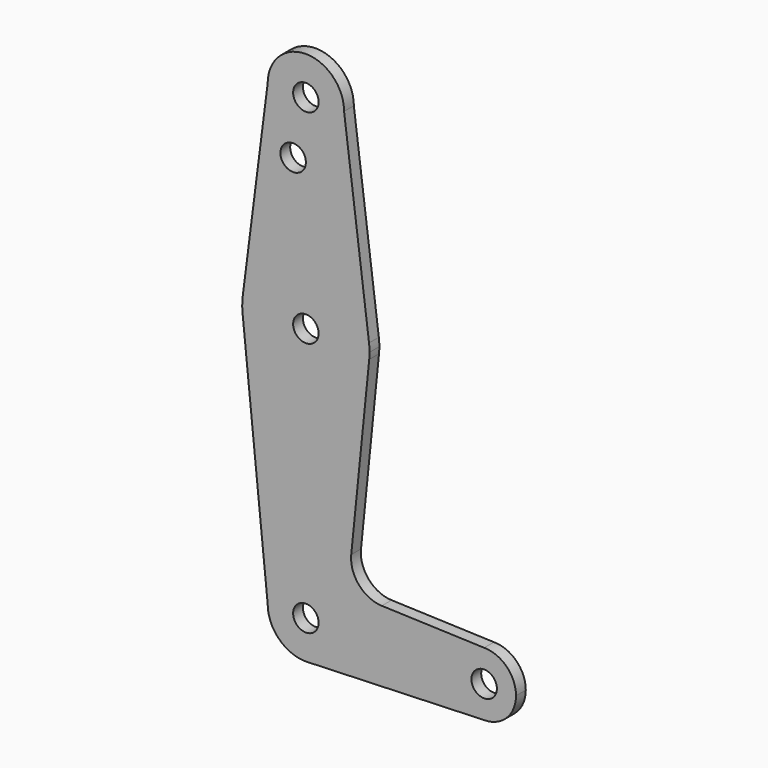
from build123d import *

# Parameters (mm, degrees)
F0_R     = 3.175
F1_DEPTH = 3.048


with BuildPart() as f1:
    # F0 (on Front) → F1 (new body)
    with BuildSketch(Plane.XZ):
        with BuildLine():
            ThreePointArc((-9.525, 114.3), (0, 104.775), (9.525, 114.3))
            ThreePointArc((9.525, 114.3), (0, 123.825), (-9.525, 114.3))
        make_face()
        with Locations((0, 114.3)):
            Circle(F0_R, mode=Mode.SUBTRACT)
        with BuildLine():
            Line((15.747457, 65.508289), (9.525, 114.3))
            ThreePointArc((9.525, 114.3), (0, 104.775), (-9.525, 114.3))
            Line((-9.525, 114.3), (-15.747457, 65.508289))
            ThreePointArc((-15.747457, 65.508289), (0, 79.375), (15.747457, 65.508289))
        make_face()
        with Locations((-3.175, 100.0252)):
            Circle(F0_R, mode=Mode.SUBTRACT)
        with BuildLine():
            ThreePointArc((15.875, 63.5), (15.843082, 64.506168), (15.747457, 65.508289))
            ThreePointArc((15.747457, 65.508289), (0, 79.375), (-15.747457, 65.508289))
            ThreePointArc((-15.747457, 65.508289), (-15.873668, 63.705667), (-15.794203, 61.90038))
            ThreePointArc((-15.794203, 61.90038), (0, 47.625), (15.794203, 61.90038))
            ThreePointArc((15.794203, 61.90038), (15.854788, 62.699171), (15.875, 63.5))
        make_face()
        with Locations((0, 63.5)):
            Circle(F0_R, mode=Mode.SUBTRACT)
        with BuildLine():
            ThreePointArc((15.794203, 61.90038), (0, 47.625), (-15.794203, 61.90038))
            Line((-15.794203, 61.90038), (-9.525, 0))
            ThreePointArc((-9.525, 0), (0, 9.525), (9.525, 0))
            ThreePointArc((9.525, 0), (6.854788, -6.613434), (0.341271, -9.518884))
            Line((0.341271, -9.518884), (44.450015, -7.9375))
            ThreePointArc((44.450015, -7.9375), (36.512515, 0), (44.450015, 7.9375))
            Line((44.450015, 7.9375), (18.932251, 8.852362))
            ThreePointArc((18.932251, 8.852362), (13.224458, 11.573097), (11.307362, 17.598546))
            Line((11.307362, 17.598546), (15.794203, 61.90038))
        make_face()
        with BuildLine():
            ThreePointArc((9.525, 0), (0, 9.525), (-9.525, 0))
            ThreePointArc((-9.525, 0), (-6.613434, -6.854788), (0.341271, -9.518884))
            ThreePointArc((0.341271, -9.518884), (6.854788, -6.613434), (9.525, 0))
        make_face()
        Circle(F0_R, mode=Mode.SUBTRACT)
        with BuildLine():
            ThreePointArc((44.450015, 7.9375), (36.512515, 0), (44.450015, -7.9375))
            ThreePointArc((44.450015, -7.9375), (50.062675, -5.61266), (52.387515, 0))
            ThreePointArc((52.387515, 0), (50.062675, 5.61266), (44.450015, 7.9375))
        make_face()
        with Locations((44.450015, 0)):
            Circle(F0_R, mode=Mode.SUBTRACT)
    extrude(amount=-F1_DEPTH)


solid = f1.part
